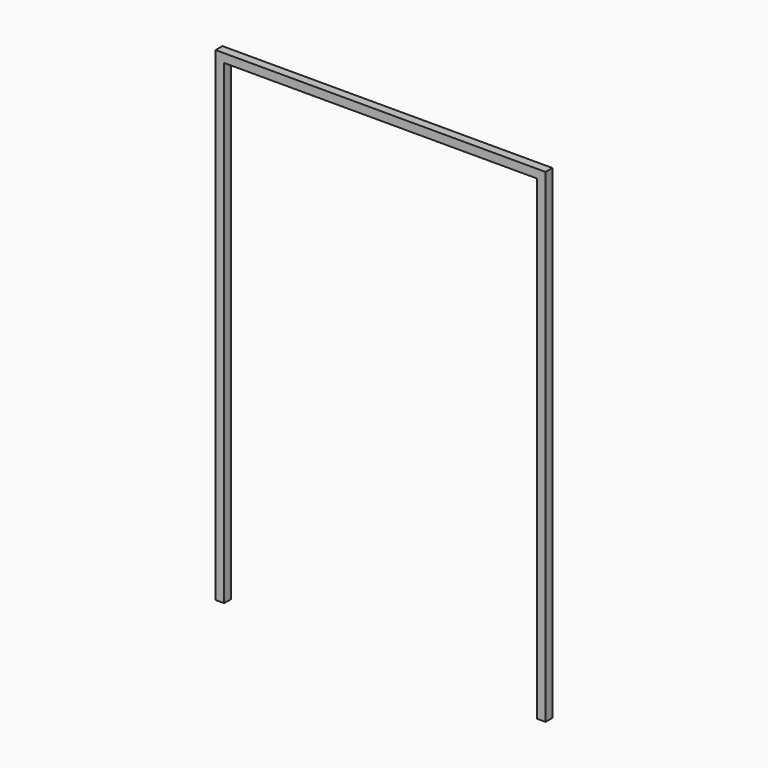
from build123d import *

# Parameters (mm, degrees)
F0_W = 40
F0_H = 40


with BuildPart() as f2:
    # F2: sweep along a path in F1
    with BuildLine(Plane.XZ) as f2_path:
        Line((0, 0), (0, 2240))
        Line((0, 2240), (1500, 2240))
        Line((1500, 2240), (1500, 0))
    # F0 (on Top) → F2 (sweep)
    with BuildSketch(Plane.XY):
        Rectangle(F0_W, F0_H)
    sweep(path=f2_path.line, transition=Transition.RIGHT)


solid = f2.part
